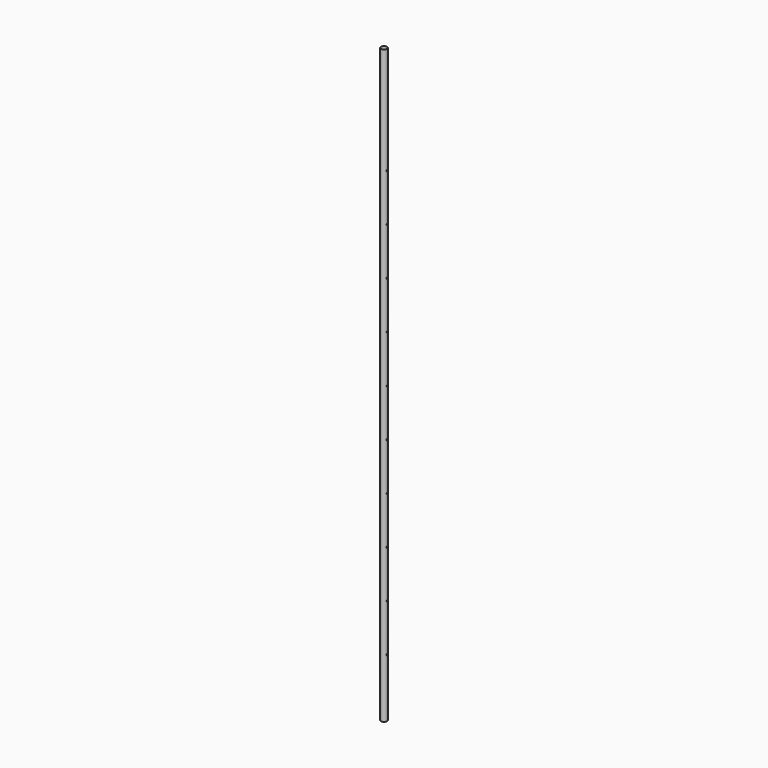
from build123d import *

# Parameters (mm, degrees)
F0_R     = 10
F1_DEPTH = 2000
F2_R     = 2
F3_DEPTH = 12.5


with BuildPart() as f1:
    # F0 (on Top) → F1 (new body)
    with BuildSketch(Plane.XY):
        Circle(F0_R)
    extrude(amount=F1_DEPTH)

    # F2 (on Right) → F3 (cut, symmetric)
    with BuildSketch(Plane.YZ):
        with Locations((0, 198)):
            Circle(F2_R)
        with Locations((0, 358)):
            Circle(F2_R)
        with Locations((0, 518)):
            Circle(F2_R)
        with Locations((0, 678)):
            Circle(F2_R)
        with Locations((0, 838)):
            Circle(F2_R)
        with Locations((0, 998)):
            Circle(F2_R)
        with Locations((0, 1158)):
            Circle(F2_R)
        with Locations((0, 1318)):
            Circle(F2_R)
        with Locations((0, 1478)):
            Circle(F2_R)
        with Locations((0, 1638)):
            Circle(F2_R)
    extrude(amount=F3_DEPTH, both=True, mode=Mode.SUBTRACT)


solid = f1.part
